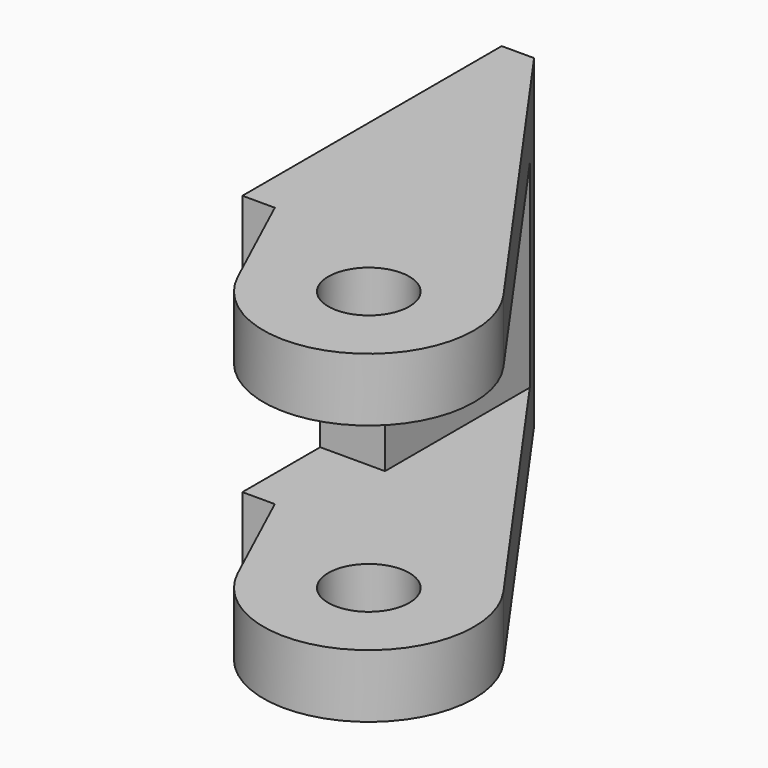
from build123d import *

# Parameters (mm, degrees)
PAD020_DEPTH         = 10
SKETCH048_R          = 2.55
SKETCH048_W          = 20
SKETCH048_H          = 12.2
POCKET016_DEPTH      = 0.001
POCKET016_DEPTH_BACK = -17.501
SKETCH049_W          = 50
SKETCH049_H          = 12.2
POCKET017_DEPTH      = 13.501
SKETCH050_R          = 2.5
POCKET018_DEPTH      = 10.001
POCKET018_DEPTH_BACK = -10.001


with BuildPart() as part:
    # Sketch047 → Pad020 (new body, symmetric)
    with BuildSketch(Plane.XY):
        with BuildLine():
            ThreePointArc((5.096581, -16.720229), (14.249301, -19.629569), (16.308429, -10.248922))
            Line((2, 10), (16.308429, -10.248922))
            Line((0, 10), (2, 10))
            Line((0, -10), (0, 10))
            Line((0, -10), (2, -10))
            Line((2, -10), (5.096581, -16.720229))
        make_face()
    extrude(amount=PAD020_DEPTH, both=True)

    # Sketch048 → Pocket016 (cut, two sides)
    with BuildSketch(Plane.YZ) as pocket016_sk:
        Circle(SKETCH048_R)
        with Locations((-14, 0)):
            Rectangle(SKETCH048_W, SKETCH048_H)
    extrude(amount=-POCKET016_DEPTH, mode=Mode.SUBTRACT)
    extrude(pocket016_sk.sketch, amount=-POCKET016_DEPTH_BACK, mode=Mode.SUBTRACT)

    # Sketch049 → Pocket017 (cut, through all)
    with BuildSketch(Plane.YZ.offset(4)):
        Rectangle(SKETCH049_W, SKETCH049_H)
    extrude(amount=POCKET017_DEPTH, mode=Mode.SUBTRACT)

    # Sketch050 → Pocket018 (cut, two sides)
    with BuildSketch(Plane.XY) as pocket018_sk:
        with Locations((11, -14)):
            Circle(SKETCH050_R)
    extrude(amount=-POCKET018_DEPTH, mode=Mode.SUBTRACT)
    extrude(pocket018_sk.sketch, amount=-POCKET018_DEPTH_BACK, mode=Mode.SUBTRACT)


solid = part.part
